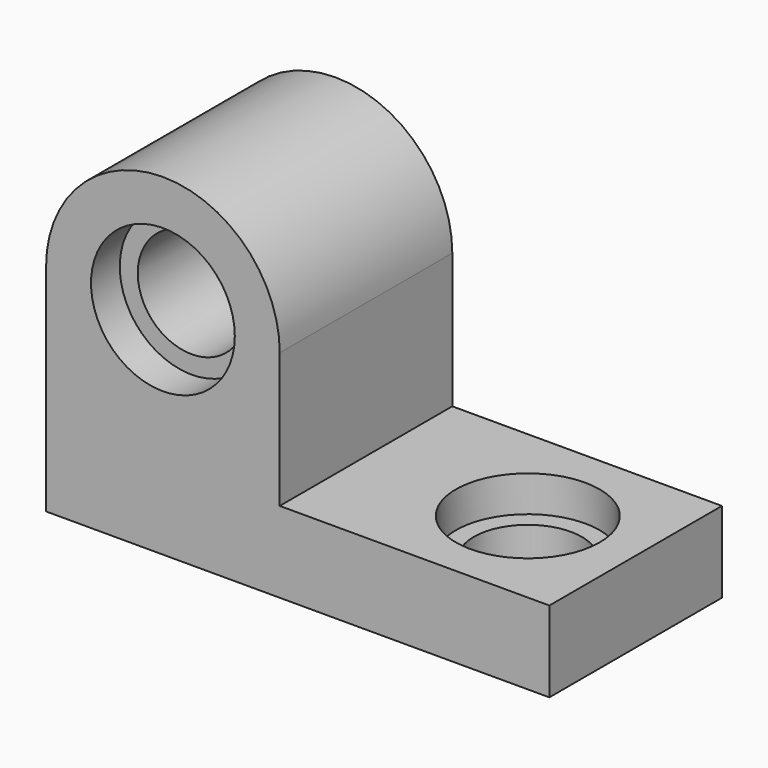
from build123d import *

# Parameters (mm, degrees)
F1_DEPTH       = 38.1
F3_D           = 38.1
F3_CBORE_D     = 50.8
F3_CBORE_DEPTH = 12.7
F5_D           = 38.1
F5_CBORE_D     = 50.8
F5_CBORE_DEPTH = 12.7


with BuildPart() as f1:
    # F0 (on Front) → F1 (new body, symmetric)
    with BuildSketch(Plane.XZ):
        with BuildLine():
            ThreePointArc((41.275, 0), (0, 41.275), (-41.275, 0))
            Line((-41.275, 0), (-41.275, -76.2))
            Line((-41.275, -76.2), (136.525, -76.2))
            Line((136.525, -76.2), (136.525, -47.625))
            Line((136.525, -47.625), (41.275, -47.625))
            Line((41.275, -47.625), (41.275, 0))
        make_face()
    extrude(amount=F1_DEPTH, both=True)

    # F3 (through all)
    with Locations(Plane.XZ.offset(38.1)):
        with Locations((0, 0)):
            CounterBoreHole(F3_D / 2, F3_CBORE_D / 2, F3_CBORE_DEPTH)

    # F5 (through all)
    with Locations(Plane.XY.offset(-47.625)):
        with Locations((98.425, 0)):
            CounterBoreHole(F5_D / 2, F5_CBORE_D / 2, F5_CBORE_DEPTH)


solid = f1.part
